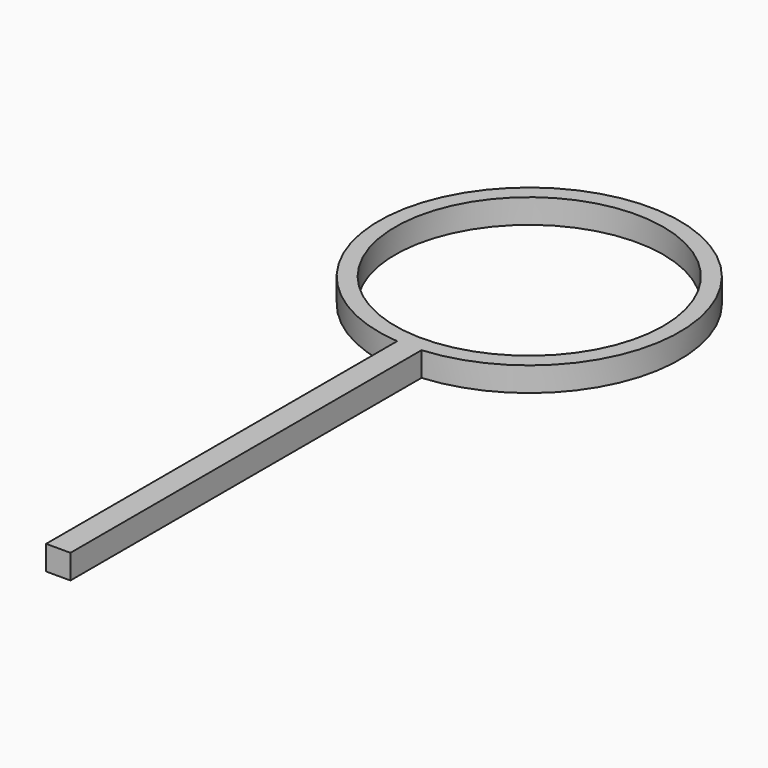
from build123d import *

# Parameters (mm, degrees)
F0_R     = 55
F1_DEPTH = 10


with BuildPart() as f1:
    # F0 (on Top) → F1 (new body)
    with BuildSketch(Plane.XY):
        with BuildLine():
            ThreePointArc((10, 0), (5, 123.202917), (0, 0))
            Line((0, 0), (0, -180))
            Line((0, -180), (10, -180))
            Line((10, -180), (10, 0))
        make_face()
        with Locations((5, 61.5)):
            Circle(F0_R, mode=Mode.SUBTRACT)
    extrude(amount=F1_DEPTH)


solid = f1.part
